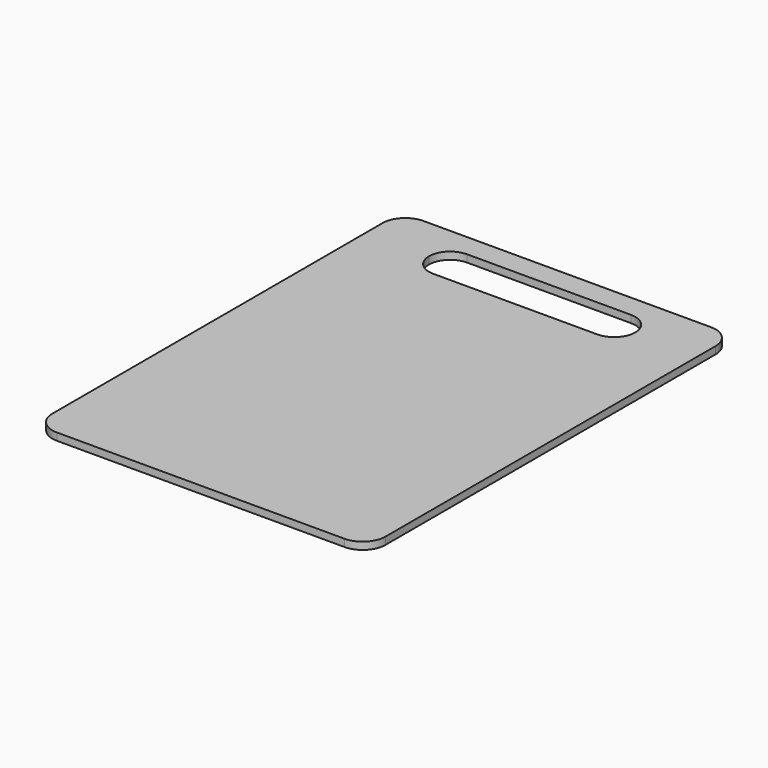
from build123d import *

# Parameters (mm, degrees)
F1_DEPTH = 4.5


with BuildPart() as f1:
    # F0 (on Top) → F1 (new body)
    with BuildSketch(Plane.XY):
        with BuildLine():
            Line((86.379995, 144.308884), (-90.620005, 144.308884))
            ThreePointArc((-90.620005, 144.308884), (-100.5195, 140.208379), (-104.620005, 130.308884))
            Line((-104.620005, 130.308884), (-104.620005, -123.691116))
            ThreePointArc((-104.620005, -123.691116), (-100.5195, -133.590611), (-90.620005, -137.691116))
            Line((-90.620005, -137.691116), (86.379995, -137.691116))
            ThreePointArc((86.379995, -137.691116), (96.27949, -133.590611), (100.379995, -123.691116))
            Line((100.379995, -123.691116), (100.379995, 130.308884))
            ThreePointArc((100.379995, 130.308884), (96.27949, 140.208379), (86.379995, 144.308884))
        make_face()
        with BuildLine():
            ThreePointArc((-65.620005, 117.308884), (-61.812393, 126.501272), (-52.620005, 130.308884))
            Line((-52.620005, 130.308884), (48.379995, 130.308884))
            ThreePointArc((48.379995, 130.308884), (57.572383, 126.501272), (61.379995, 117.308884))
            ThreePointArc((61.379995, 117.308884), (57.572383, 108.116496), (48.379995, 104.308884))
            Line((48.379995, 104.308884), (-52.620005, 104.308884))
            ThreePointArc((-52.620005, 104.308884), (-61.812393, 108.116496), (-65.620005, 117.308884))
        make_face(mode=Mode.SUBTRACT)
    extrude(amount=F1_DEPTH)


solid = f1.part
